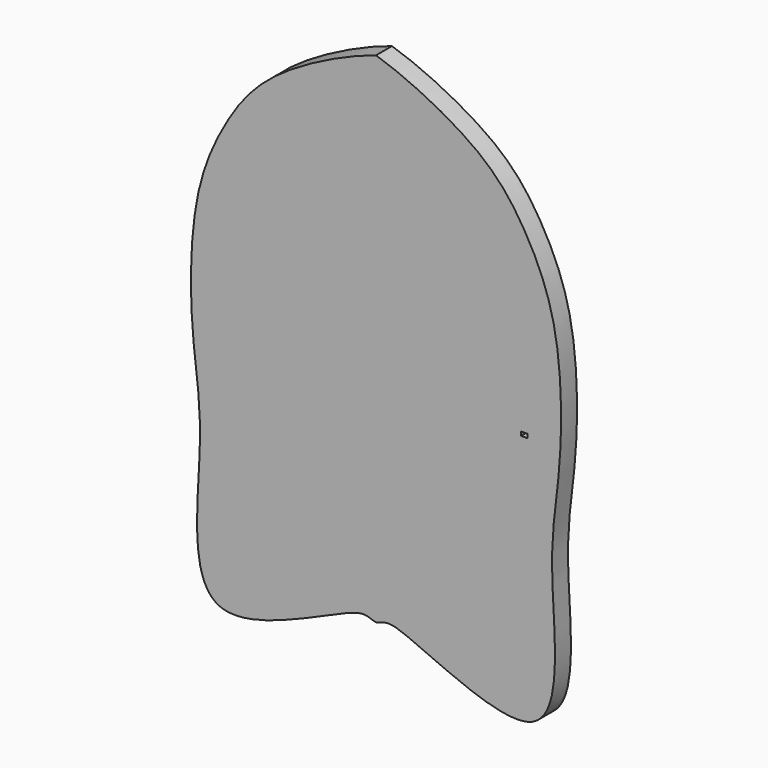
from build123d import *

# Parameters (mm, degrees)
F0_W     = 3.3238828182
F0_H     = 2
F1_DEPTH = 10.16


with BuildPart() as f1:
    # F0 (on Front) → F1 (new body)
    with BuildSketch(Plane.XZ):
        with BuildLine():
            add(Edge.make_bspline(
                [(0, 146.4892660909), (14.973101639, 141.8489893165), (54.4209947612, 123.0524360362), (76.8345900454, 93.036192557), (94.3074716459, 54.7893907086), (95.1805086638, -9.7541734509), (85.5970240787, -51.1941528922), (101.5475913352, -156.7799561455), (7.9334628065, -100.9566656144), (3.5689163596, -106.8139623215), (0, -107.5107339091)],
                knots=[0, 0, 0, 0, 0.1378184923, 0.2490183867, 0.3654984717, 0.5073110034, 0.6375834119, 0.7889181457, 0.944013869, 1, 1, 1, 1], degree=3))
            add(Edge.make_bspline(
                [(0, 146.4892660909), (-14.973101639, 141.8489893165), (-54.4209947612, 123.0524360362), (-76.8345900454, 93.036192557), (-94.3074716459, 54.7893907086), (-95.1805086638, -9.7541734509), (-85.5970240787, -51.1941528922), (-101.5475913352, -156.7799561455), (-7.9334628065, -100.9566656144), (-3.5689163596, -106.8139623215), (0, -107.5107339091)],
                knots=[0, 0, 0, 0, 0.1378184923, 0.2490183867, 0.3654984717, 0.5073110034, 0.6375834119, 0.7889181457, 0.944013869, 1, 1, 1, 1], degree=3))
        make_face()
        with Locations((75.5022540689, 1)):
            Rectangle(F0_W, F0_H, mode=Mode.SUBTRACT)
    extrude(amount=F1_DEPTH)


solid = f1.part
